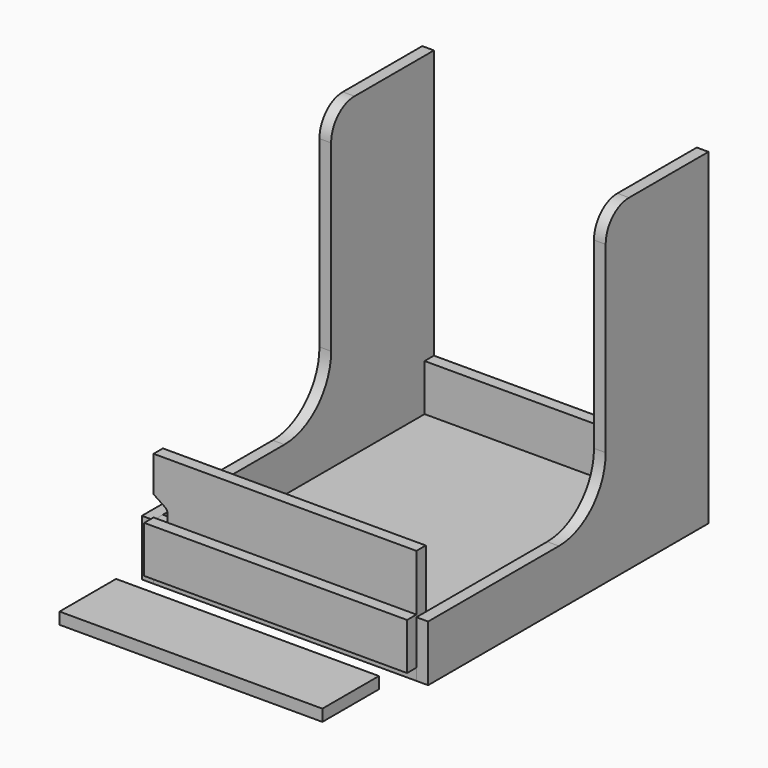
from build123d import *

# Parameters (mm, degrees)
F0_W      = 225
F0_H      = 280
F1_DEPTH  = 10
F2_W      = 225
F2_H      = 48
F2_R      = 4.9
F3_DEPTH  = 10
F4_DEPTH  = 7
F5_W      = 225
F5_H      = 50
F6_DEPTH  = 10
F8_W      = 280
F8_H      = 10
F10_DEPTH = 10
F7_W      = 280
F7_H      = 10
F11_DEPTH = 10
F12_DEPTH = 10
F14_DEPTH = 10
F15_W     = 225
F15_H     = 60.5
F16_DEPTH = 10


with BuildPart() as f1:
    # F0 (on Top) → F1 (new body)
    with BuildSketch(Plane.XY):
        with Locations((112.5, 140)):
            Rectangle(F0_W, F0_H)
    extrude(amount=-F1_DEPTH)


with BuildPart() as f3:
    # F2 (on face) → F3 (new body)
    with BuildSketch(Plane.XZ):
        with Locations((112.5, 14)):
            Rectangle(F2_W, F2_H)
        with Locations((62.5, 28)):
            Circle(F2_R, mode=Mode.SUBTRACT)
        with Locations((162.5, 28)):
            Circle(F2_R, mode=Mode.SUBTRACT)
        with Locations((62.5, 28)):
            Circle(F2_R)
        with Locations((162.5, 28)):
            Circle(F2_R)
    extrude(amount=F3_DEPTH)

    # F2 (on face) → F4 (cut)
    with BuildSketch(Plane.XZ):
        with Locations((62.5, 28)):
            Circle(F2_R)
        with Locations((162.5, 28)):
            Circle(F2_R)
    extrude(amount=F4_DEPTH, mode=Mode.SUBTRACT)


with BuildPart() as f6:
    # F5 (on face) → F6 (new body)
    with BuildSketch(Plane(origin=(0, 280, 0), x_dir=(-1, 0, 0), z_dir=(0, 1, 0))):
        with Locations((-112.5, 15)):
            Rectangle(F5_W, F5_H)
    extrude(amount=F6_DEPTH)


with BuildPart() as f10:
    # F8 (on face) → F10 (new body)
    with BuildSketch(Plane(origin=(0, 0, 0), x_dir=(0, -1, 0), z_dir=(-1, 0, 0))):
        with Locations((-140, -5)):
            Rectangle(F8_W, F8_H)
        with BuildLine():
            Line((0, -10), (10, -10))
            Line((10, -10), (10, 38))
            Line((10, 38), (-130, 38))
            ThreePointArc((-130, 38), (-165.3553390593, 52.6446609407), (-180, 88))
            Line((-180, 88), (-180, 245))
            ThreePointArc((-180, 245), (-187.3223304703, 262.6776695297), (-205, 270))
            Line((-205, 270), (-290, 270))
            Line((-290, 270), (-290, -10))
            Line((-290, -10), (-280, -10))
            Line((-280, -10), (-280, 0))
            Line((-280, 0), (0, 0))
            Line((0, 0), (0, -10))
        make_face()
    extrude(amount=F10_DEPTH)


with BuildPart() as f11:
    # F7 (on face) → F11 (new body)
    with BuildSketch(Plane.YZ.offset(225)):
        with BuildLine():
            Line((290, -10), (290, 270))
            Line((290, 270), (205, 270))
            ThreePointArc((205, 270), (187.3223304703, 262.6776695297), (180, 245))
            Line((180, 245), (180, 88))
            ThreePointArc((180, 88), (165.3553390593, 52.6446609407), (130, 38))
            Line((130, 38), (-10, 38))
            Line((-10, 38), (-10, -10))
            Line((-10, -10), (0, -10))
            Line((0, -10), (0, 0))
            Line((0, 0), (280, 0))
            Line((280, 0), (280, -10))
            Line((280, -10), (290, -10))
        make_face()
        with Locations((140, -5)):
            Rectangle(F7_W, F7_H)
    extrude(amount=F11_DEPTH)


with BuildPart() as f12:
    # F9 (on face) → F12 (new body)
    with BuildSketch(Plane.XZ.offset(10)):
        Polygon((0, 40), (0, 0), (220, 0), (225, 0), (225, 40), align=None)
    extrude(amount=F12_DEPTH)


with BuildPart() as f14:
    # F13 (on Front) → F14 (new body)
    with BuildSketch(Plane.XZ):
        with BuildLine():
            Line((0, 10), (0, 0))
            Line((0, 0), (225, 0))
            Line((225, 0), (225, 88))
            Line((225, 88), (0, 88))
            Line((0, 88), (0, 57.509418577))
            Line((0, 57.509418577), (9.7789325581, 50.9716644748))
            ThreePointArc((9.7789325581, 50.9716644748), (11.4099128557, 49.17144929), (12, 46.8150391804))
            Line((12, 46.8150391804), (12, 15))
            ThreePointArc((12, 15), (10.5355339059, 11.4644660941), (7, 10))
            Line((7, 10), (0, 10))
        make_face()
    extrude(amount=F14_DEPTH)


with BuildPart() as f16:
    # F15 (on Top) → F16 (new body)
    with BuildSketch(Plane.XY):
        with Locations((112.5, -80.3575800167)):
            Rectangle(F15_W, F15_H)
    extrude(amount=F16_DEPTH)


solid = Compound([f1.part, f3.part, f6.part, f10.part, f11.part, f12.part, f14.part, f16.part])
